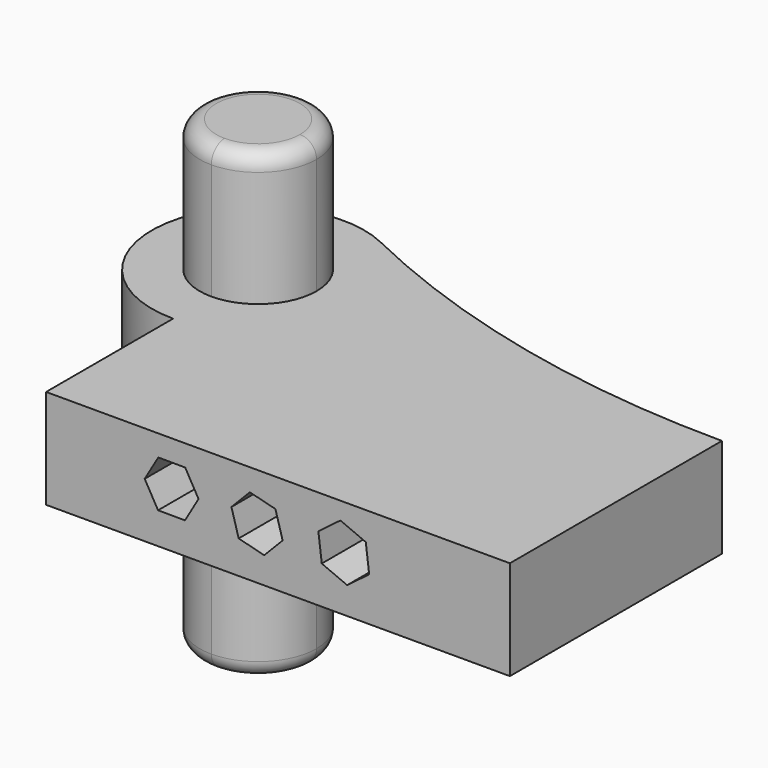
from build123d import *

# Parameters (mm, degrees)
F1_DEPTH = 30
F2_DEPTH = 70
F4_DEPTH = 200
F5_R     = 5


with BuildPart() as f1:
    # F0 (on Top) → F1 (new body)
    with BuildSketch(Plane.XY):
        with BuildLine():
            ThreePointArc((-67.980623506, 20.0906718244), (-80.4599364374, 50.2183983524), (-50.3322099094, 37.739085421))
            Line((-50.3322099094, 37.739085421), (-35.9065500107, 37.739085421))
            ThreePointArc((-35.9065500107, 37.739085421), (-40.8088399907, 54.7813966252), (-54.0171508499, 66.6141200005))
            ThreePointArc((-54.0171508499, 66.6141200005), (-99.2447097062, 44.9017039821), (-67.980623506, 5.6650119258))
            Line((-67.980623506, 5.6650119258), (-67.980623506, 20.0906718244))
        make_face()
        with BuildLine():
            ThreePointArc((-54.0171508499, 66.6141200005), (-40.8088399907, 54.7813966252), (-35.9065500107, 37.739085421))
            Line((-35.9065500107, 37.739085421), (72.019376494, 37.739085421))
            ThreePointArc((72.019376494, 37.739085421), (7.3684409887, 45.0501597065), (-54.0171508499, 66.6141200005))
        make_face()
        with BuildLine():
            Line((72.019376494, 37.739085421), (-35.9065500107, 37.739085421))
            ThreePointArc((-35.9065500107, 37.739085421), (-45.3008286372, 15.0592905522), (-67.980623506, 5.6650119258))
            Line((-67.980623506, 5.6650119258), (-67.980623506, -42.260914579))
            Line((-67.980623506, -42.260914579), (72.019376494, -42.260914579))
            Line((72.019376494, -42.260914579), (72.019376494, 37.739085421))
        make_face()
        with BuildLine():
            Line((-35.9065500107, 37.739085421), (-50.3322099094, 37.739085421))
            ThreePointArc((-50.3322099094, 37.739085421), (-55.5013105746, 25.2597724897), (-67.980623506, 20.0906718244))
            Line((-67.980623506, 20.0906718244), (-67.980623506, 5.6650119258))
            ThreePointArc((-67.980623506, 5.6650119258), (-45.3008286372, 15.0592905522), (-35.9065500107, 37.739085421))
        make_face()
    extrude(amount=F1_DEPTH)

    # F3 (on face) → F4 (cut)
    with BuildSketch(Plane.XZ.offset(42.260914579)):
        Polygon((-26.0570636989, 9.5027446255), (-21.9619207977, 16.518346642), (-25.9900389162, 23.5726454348), (-34.1132999359, 23.6113422111), (-38.2084428371, 16.5957401946), (-34.1803247186, 9.5414414018), align=None)
        Polygon((1.2488726703, 21.4017832862), (-6.4774776311, 23.3495750756), (-12.0274899527, 17.6322553307), (-9.8511519729, 9.9671437964), (-2.1248016714, 8.019352007), (3.4252106502, 13.7366717519), align=None)
        Polygon((22.8943165159, 8.212744078), (29.5398056635, 13.2265329518), (28.5204817034, 21.4885898111), (20.8556685957, 24.7368577965), (14.2101794481, 19.7230689228), (15.2295034082, 11.4610120635), align=None)
    extrude(amount=-F4_DEPTH, mode=Mode.SUBTRACT)


with BuildPart() as f2:
    # F0 (on Top) → F2 (new body, symmetric)
    with BuildSketch(Plane.XY):
        with BuildLine():
            Line((-50.3322099094, 37.739085421), (-67.980623506, 37.739085421))
            Line((-67.980623506, 37.739085421), (-67.980623506, 20.0906718244))
            ThreePointArc((-67.980623506, 20.0906718244), (-55.5013105746, 25.2597724897), (-50.3322099094, 37.739085421))
        make_face()
        with BuildLine():
            Line((-67.980623506, 20.0906718244), (-67.980623506, 37.739085421))
            Line((-67.980623506, 37.739085421), (-50.3322099094, 37.739085421))
            ThreePointArc((-50.3322099094, 37.739085421), (-80.4599364374, 50.2183983524), (-67.980623506, 20.0906718244))
        make_face()
    extrude(amount=F2_DEPTH, both=True)

    # F5
    f5_edges = [f2.edges().sort_by_distance(p)[0] for p in [
        (-85.629037, 37.739085, -70),
        (-50.33221, 37.739085, 0),
        (-85.629037, 37.739085, 70),
    ]]
    fillet(f5_edges, radius=F5_R)


solid = Compound([f1.part, f2.part])
